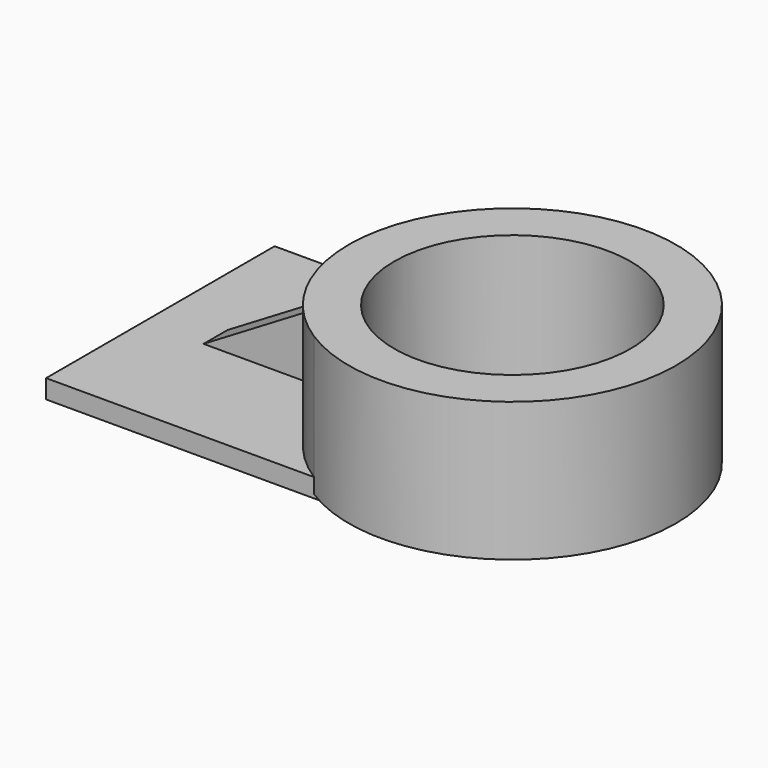
from build123d import *

# Parameters (mm, degrees)
F0_W     = 56.8606331944
F0_H     = 37.3283550143
F0_H_2   = 39.9326570332
F0_W_2   = 23.0046827346
F1_DEPTH = 5.08
F2_R     = 44.2709641818
F3_DEPTH = 33.528
F4_DEPTH = 4.064
F5_DEPTH = 123.698
F7_DEPTH = 4.318
F8_DEPTH = 3.81


with BuildPart() as f1:
    # F0 (on Top) → F1 (new body)
    with BuildSketch(Plane.XY):
        with Locations((-28.4303165972, -18.6641775072)):
            Rectangle(F0_W, F0_H)
        with Locations((-28.4303165972, 19.9663285166)):
            Rectangle(F0_W, F0_H_2)
        with Locations((11.5023413673, 19.9663285166)):
            Rectangle(F0_W_2, F0_H_2)
        with Locations((11.5023413673, -18.6641775072)):
            Rectangle(F0_W_2, F0_H)
    extrude(amount=-F1_DEPTH)

    # F2 (on face) → F3 (join)
    with BuildSketch(Plane.XY):
        with Locations((39.4151285291, 0)):
            Circle(F2_R)
        with BuildLine():
            ThreePointArc((7.4318216845, 0), (39.4151285291, 31.9833068446), (71.3984353737, 0))
            ThreePointArc((71.3984353737, 0), (39.4151285291, -31.9833068446), (7.4318216845, 0))
        make_face(mode=Mode.SUBTRACT)
        with BuildLine():
            ThreePointArc((23.0046827346, -27.4523074721), (11.5961400498, -15.7808680594), (7.4318216845, 0))
            ThreePointArc((7.4318216845, 0), (11.5961400498, 15.7808680594), (23.0046827346, 27.4523074721))
            Line((23.0046827346, 27.4523074721), (23.0046827346, 39.9326570332))
            Line((23.0046827346, 39.9326570332), (20.3022749521, 39.9326570332))
            ThreePointArc((20.3022749521, 39.9326570332), (-4.7745397503, 2.6816947903), (15.6136121591, -37.3283550143))
            Line((15.6136121591, -37.3283550143), (23.0046827346, -37.3283550143))
            Line((23.0046827346, -37.3283550143), (23.0046827346, -27.4523074721))
        make_face()
    extrude(amount=F3_DEPTH)

    # F4 (add): a face of the model
    f4_faces = [f1.faces().sort_by_distance(p)[0] for p in [
        (60.1643011313, -37.8384648316, 0),
    ]]
    extrude(f4_faces, amount=F4_DEPTH)

    # F5 (cut): a face of the model
    f5_faces = [f1.faces().sort_by_distance(p)[0] for p in [
        (16.6239663947, 0, 0),
    ]]
    extrude(f5_faces, amount=-F5_DEPTH, mode=Mode.SUBTRACT)

    # F6 (on Front) → F7 (join)
    with BuildSketch(Plane.XZ):
        Polygon((-40.6748019159, 0), (0, 0), (0, 24.306833744), align=None)
    extrude(amount=F7_DEPTH)

    # F8 (add): a face of the model
    f8_faces = [f1.faces().sort_by_distance(p)[0] for p in [
        (-16.7954910738, 0, 7.1350124797),
    ]]
    extrude(f8_faces, amount=F8_DEPTH)


solid = f1.part
